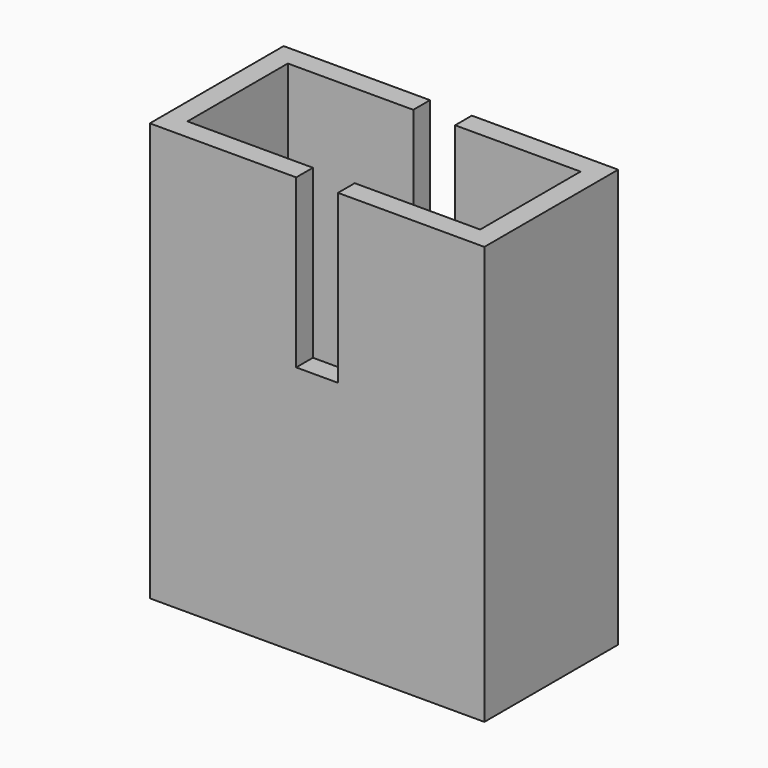
from build123d import *

# Parameters (mm, degrees)
F0_W     = 101.6
F0_H     = 50.8
F0_W_2   = 88.9
F0_H_2   = 38.1
F1_DEPTH = 127
F2_W     = 76.2
F2_H     = 76.2
F3_DEPTH = 6.35


with BuildPart() as f1:
    # F0 (on Top) → F1 (new body)
    with BuildSketch(Plane.XY):
        Rectangle(F0_W, F0_H)
        Rectangle(F0_W_2, F0_H_2, mode=Mode.SUBTRACT)
    extrude(amount=F1_DEPTH)

    # F2 (on Right) → F3 (cut, symmetric)
    with BuildSketch(Plane.YZ):
        with Locations((-6.35, 114.3)):
            Rectangle(F2_W, F2_H)
    extrude(amount=F3_DEPTH, both=True, mode=Mode.SUBTRACT)


solid = f1.part
